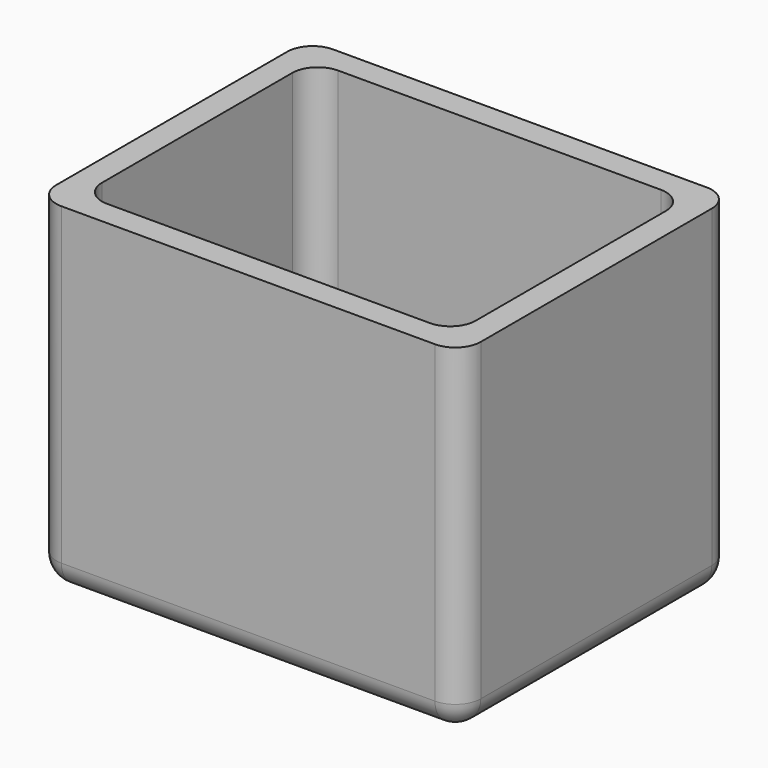
from build123d import *

# Parameters (mm, degrees)
F0_W     = 50
F0_H     = 40
F1_DEPTH = 40
F2_W     = 44
F2_H     = 34
F3_DEPTH = 37
F4_R     = 3
F5_R     = 3


with BuildPart() as f1:
    # F0 (on Top) → F1 (new body)
    with BuildSketch(Plane.XY):
        with Locations((0, 20)):
            Rectangle(F0_W, F0_H)
    extrude(amount=F1_DEPTH)

    # F2 (on face) → F3 (cut)
    with BuildSketch(Plane.XY.offset(40)):
        with Locations((0, 20)):
            Rectangle(F2_W, F2_H)
    extrude(amount=-F3_DEPTH, mode=Mode.SUBTRACT)

    # F4
    f4_edges = [f1.edges().sort_by_distance(p)[0] for p in [
        (-22, 37, 21.5),
        (0, 37, 3),
        (-22, 20, 3),
        (-22, 3, 21.5),
        (0, 3, 3),
        (22, 20, 3),
        (22, 37, 21.5),
        (22, 3, 21.5),
    ]]
    fillet(f4_edges, radius=F4_R)

    # F5
    f5_edges = [f1.edges().sort_by_distance(p)[0] for p in [
        (-25, 0, 20),
        (25, 0, 20),
        (0, 0, 0),
        (-25, 20, 0),
        (-25, 40, 20),
        (0, 40, 0),
        (25, 20, 0),
        (25, 40, 20),
    ]]
    fillet(f5_edges, radius=F5_R)


solid = f1.part
